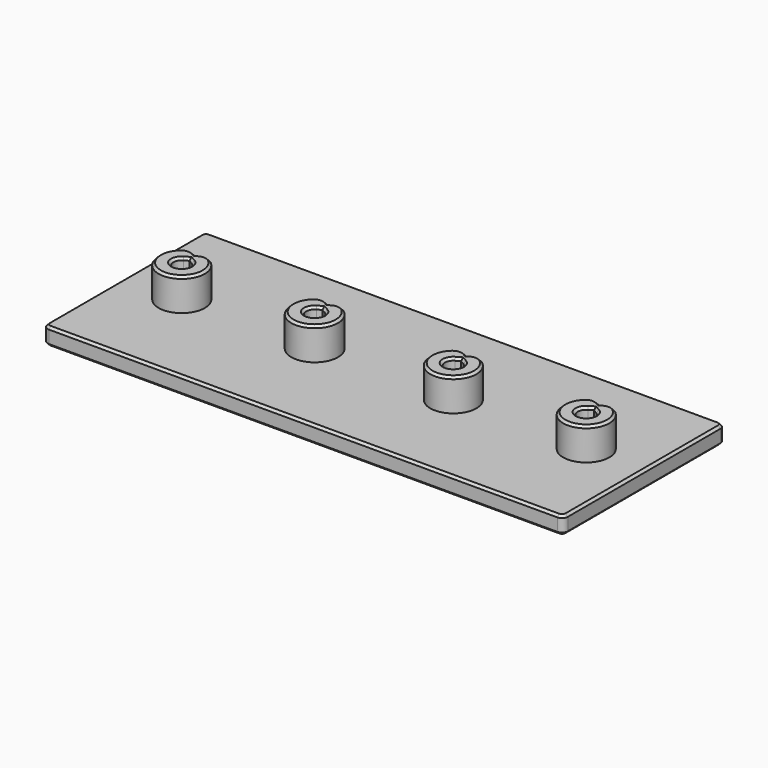
from build123d import *

# Parameters (mm, degrees)
SKETCH_W                = 90
SKETCH_H                = 35
PAD_DEPTH               = 3
SKETCH001_R             = 10.5
HOLE_DEPTH              = 25
HOLE_TEARDROPS_DEPTH    = 25
SKETCH002_R             = 4
PAD001_DEPTH            = 5.6
POCKET_DEPTH            = 5.6
SKETCH004_R             = 1.45
HOLE001_DEPTH           = 25
HOLE001_TEARDROPS_DEPTH = 25
FILLET_R                = 2
CHAMFER_SIZE            = 0.4
FILLET001_R             = 1
PAD002_DEPTH            = 7
SKETCH005_R             = 14.71653
PAD003_DEPTH            = 10
SKETCH006_R             = 4.05
PAD004_DEPTH            = 5.6
POCKET001_DEPTH         = 5.6
SKETCH008_R             = 1.45
HOLE002_DEPTH           = 25
HOLE002_TEARDROPS_DEPTH = 25
FILLET002_R             = 2
CHAMFER001_SIZE         = 0.4
POCKET002_DEPTH         = 7
CHAMFER002_SIZE         = 0.4
CHAMFER003_SIZE         = 0.6


with BuildPart() as part:
    # Sketch → Pad (new body)
    with BuildSketch(Plane.XY):
        Rectangle(SKETCH_W, SKETCH_H)
    extrude(amount=PAD_DEPTH)

    # Sketch001 (on Face6 of Pad) → Hole (cut)
    with BuildSketch(Plane.XY.offset(3)):
        with Locations((-12, 0)):
            Circle(SKETCH001_R)
    extrude(amount=-HOLE_DEPTH, mode=Mode.SUBTRACT)

    # Sketch001_Teardrops (on Sketch) → Hole_Teardrops (cut)
    with BuildSketch(Plane.XY.offset(3)):
        with BuildLine():
            ThreePointArc((-17.25, 9.093267), (-12, -10.5), (-6.75, 9.093267))
            Line((-6.75, 9.093267), (-12, 12.124356))
            Line((-17.25, 9.093267), (-12, 12.124356))
        make_face()
    extrude(amount=-HOLE_TEARDROPS_DEPTH, mode=Mode.SUBTRACT)

    # Sketch002 (on Face5 of Hole_Teardrops) → Pad001 (join)
    with BuildSketch(Plane.XY.offset(3)):
        with Locations((35, 0)):
            Circle(SKETCH002_R)
        with Locations((12, 0)):
            Circle(SKETCH002_R)
        with Locations((-35, 0)):
            Circle(SKETCH002_R)
    extrude(amount=PAD001_DEPTH)

    # Sketch003 (on Face13 of Pad001) → Pocket (cut)
    with BuildSketch(Plane.XY.offset(8.6)):
        Polygon((-35, 3), (-38.464102, 5), (-31.535898, 5), align=None)
        Polygon((12, 3), (8.535898, 5), (15.464102, 5), align=None)
        Polygon((38.464102, 5), (35, 3), (31.535898, 5), align=None)
    extrude(amount=-POCKET_DEPTH, mode=Mode.SUBTRACT)

    # Sketch004 (on Face17 of Pocket) → Hole001 (cut)
    with BuildSketch(Plane.XY.offset(8.6)):
        with Locations((-35, 0)):
            Circle(SKETCH004_R)
        with Locations((12, 0)):
            Circle(SKETCH004_R)
        with Locations((35, 0)):
            Circle(SKETCH004_R)
    extrude(amount=-HOLE001_DEPTH, mode=Mode.SUBTRACT)

    # Sketch004_Teardrops (on Sketch) → Hole001_Teardrops (cut)
    with BuildSketch(Plane.XY.offset(8.6)):
        with BuildLine():
            ThreePointArc((-35.725, 1.255737), (-35, -1.45), (-34.275, 1.255737))
            Line((-34.275, 1.255737), (-35, 1.674316))
            Line((-35.725, 1.255737), (-35, 1.674316))
        make_face()
        with BuildLine():
            ThreePointArc((11.275, 1.255737), (12, -1.45), (12.725, 1.255737))
            Line((12.725, 1.255737), (12, 1.674316))
            Line((11.275, 1.255737), (12, 1.674316))
        make_face()
        with BuildLine():
            ThreePointArc((34.275, 1.255737), (35, -1.45), (35.725, 1.255737))
            Line((35.725, 1.255737), (35, 1.674316))
            Line((34.275, 1.255737), (35, 1.674316))
        make_face()
    extrude(amount=-HOLE001_TEARDROPS_DEPTH, mode=Mode.SUBTRACT)

    # Fillet
    fillet_edges = [part.edges().sort_by_distance(p)[0] for p in [
        (36.334875, 3.770691, 5.8),
        (33.665125, 3.770691, 5.8),
        (13.334875, 3.770691, 5.8),
        (10.665125, 3.770691, 5.8),
        (-33.665125, 3.770691, 5.8),
        (-36.334875, 3.770691, 5.8),
    ]]
    fillet(fillet_edges, radius=FILLET_R)

    # Chamfer
    chamfer_edges = [part.edges().sort_by_distance(p)[0] for p in [
        (33.392214, -3.662653, 8.6),
        (10.392214, -3.662653, 8.6),
        (-36.607786, -3.662653, 8.6),
        (-35.725, -1.255737, 8.6),
        (11.275, -1.255737, 8.6),
        (34.275, -1.255737, 8.6),
    ]]
    chamfer(chamfer_edges, length=CHAMFER_SIZE)

    # Fillet001
    fillet001_edges = [part.edges().sort_by_distance(p)[0] for p in [
        (45, 17.5, 1.5),
        (-45, 17.5, 1.5),
        (-45, -17.5, 1.5),
        (45, -17.5, 1.5),
    ]]
    fillet(fillet001_edges, radius=FILLET001_R)

    # Fillet001 Face28 → Pad002 (add)
    with BuildSketch(Plane(origin=(1.493435, -0.023344, 0), x_dir=(0, -1, 0), z_dir=(0, 0, -1))):
        with BuildLine():
            Line((16.476656, 46.493435), (-16.523344, 46.493435))
            ThreePointArc((-16.523344, 46.493435), (-17.230451, 46.200542), (-17.523344, 45.493435))
            Line((-17.523344, 45.493435), (-17.523344, -42.506565))
            ThreePointArc((-17.523344, -42.506565), (-17.230451, -43.213672), (-16.523344, -43.506565))
            Line((-16.523344, -43.506565), (16.476656, -43.506565))
            ThreePointArc((16.476656, -43.506565), (17.183762, -43.213672), (17.476656, -42.506565))
            Line((17.476656, -42.506565), (17.476656, 45.493435))
            ThreePointArc((17.476656, 45.493435), (17.183762, 46.200542), (16.476656, 46.493435))
        make_face()
        with BuildLine():
            ThreePointArc((-0.023344, 35.043435), (-0.748344, 35.237698), (-1.279081, 35.768435))
            Line((-1.279081, 35.768435), (-1.69766, 36.493435))
            Line((-1.69766, 36.493435), (-1.279081, 37.218435))
            ThreePointArc((-1.279081, 37.218435), (1.232392, 37.218435), (-0.023344, 35.043435))
        make_face(mode=Mode.SUBTRACT)
        with BuildLine():
            ThreePointArc((-0.023344, -11.956565), (-0.748344, -11.762302), (-1.279081, -11.231565))
            Line((-1.279081, -11.231565), (-1.69766, -10.506565))
            Line((-1.69766, -10.506565), (-1.279081, -9.781565))
            ThreePointArc((-1.279081, -9.781565), (1.232392, -9.781565), (-0.023344, -11.956565))
        make_face(mode=Mode.SUBTRACT)
        with BuildLine():
            ThreePointArc((-0.023344, -34.956565), (-0.748344, -34.762302), (-1.279081, -34.231565))
            Line((-1.279081, -34.231565), (-1.69766, -33.506565))
            Line((-1.69766, -33.506565), (-1.279081, -32.781565))
            ThreePointArc((-1.279081, -32.781565), (1.232392, -32.781565), (-0.023344, -34.956565))
        make_face(mode=Mode.SUBTRACT)
        with BuildLine():
            ThreePointArc((-0.023344, 2.993435), (-5.273344, 4.400168), (-9.116611, 8.243435))
            Line((-9.116611, 8.243435), (-12.1477, 13.493435))
            Line((-12.1477, 13.493435), (-9.116611, 18.743435))
            ThreePointArc((-9.116611, 18.743435), (9.069922, 18.743435), (-0.023344, 2.993435))
        make_face(mode=Mode.SUBTRACT)
    extrude(amount=PAD002_DEPTH)

    # Sketch005 (on Face3 of Pad002) → Pad003 (join)
    with BuildSketch(Plane.XY.offset(3)):
        with Locations((-11.639154, 0)):
            Circle(SKETCH005_R)
    extrude(amount=-PAD003_DEPTH)

    # Sketch006 (on Face67 of Pad003) → Pad004 (join)
    with BuildSketch(Plane.XY.offset(3)):
        with Locations((-12, 0)):
            Circle(SKETCH006_R)
    extrude(amount=PAD004_DEPTH)

    # Sketch007 (on Face66 of Pad004) → Pocket001 (cut)
    with BuildSketch(Plane.XY.offset(8.6)):
        Polygon((-12, 3), (-15.464102, 5), (-8.535898, 5), align=None)
    extrude(amount=-POCKET001_DEPTH, mode=Mode.SUBTRACT)

    # Sketch008 (on Face69 of Pocket001) → Hole002 (cut)
    with BuildSketch(Plane.XY.offset(8.6)):
        with Locations((-12, 0)):
            Circle(SKETCH008_R)
    extrude(amount=-HOLE002_DEPTH, mode=Mode.SUBTRACT)

    # Sketch008_Teardrops (on Sketch) → Hole002_Teardrops (cut)
    with BuildSketch(Plane.XY.offset(8.6)):
        with BuildLine():
            ThreePointArc((-12.725, 1.255737), (-12, -1.45), (-11.275, 1.255737))
            Line((-11.275, 1.255737), (-12, 1.674316))
            Line((-12.725, 1.255737), (-12, 1.674316))
        make_face()
    extrude(amount=-HOLE002_TEARDROPS_DEPTH, mode=Mode.SUBTRACT)

    # Fillet002
    fillet002_edges = [part.edges().sort_by_distance(p)[0] for p in [
        (-10.608429, 3.803424, 5.8),
        (-13.391571, 3.803424, 5.8),
    ]]
    fillet(fillet002_edges, radius=FILLET002_R)

    # Chamfer001
    chamfer001_edges = [part.edges().sort_by_distance(p)[0] for p in [
        (-12.725, -1.255737, 8.6),
        (-13.613716, -3.714623, 8.6),
    ]]
    chamfer(chamfer001_edges, length=CHAMFER001_SIZE)

    # Chamfer001 Face41 → Pocket002 (cut)
    with BuildSketch(Plane(origin=(0, -0.000217, -7), x_dir=(0, -1, 0), z_dir=(0, 0, -1))):
        with BuildLine():
            Line((16.499783, 45), (-16.500217, 45))
            ThreePointArc((-16.500217, 45), (-17.207324, 44.707107), (-17.500217, 44))
            Line((-17.500217, 44), (-17.500217, -44))
            ThreePointArc((-17.500217, -44), (-17.207324, -44.707107), (-16.500217, -45))
            Line((-16.500217, -45), (16.499783, -45))
            ThreePointArc((16.499783, -45), (17.20689, -44.707107), (17.499783, -44))
            Line((17.499783, -44), (17.499783, 44))
            ThreePointArc((17.499783, 44), (17.20689, 44.707107), (16.499783, 45))
        make_face()
        with BuildLine():
            ThreePointArc((-0.000217, -36.45), (-0.725217, -36.255737), (-1.255954, -35.725))
            Line((-1.255954, -35.725), (-1.674533, -35))
            Line((-1.674533, -35), (-1.255954, -34.275))
            ThreePointArc((-1.255954, -34.275), (1.25552, -34.275), (-0.000217, -36.45))
        make_face(mode=Mode.SUBTRACT)
        with BuildLine():
            ThreePointArc((-0.000217, -13.45), (-0.725217, -13.255737), (-1.255954, -12.725))
            Line((-1.255954, -12.725), (-1.674533, -12))
            Line((-1.674533, -12), (-1.255954, -11.275))
            ThreePointArc((-1.255954, -11.275), (1.25552, -11.275), (-0.000217, -13.45))
        make_face(mode=Mode.SUBTRACT)
        with BuildLine():
            ThreePointArc((-0.000217, 33.55), (-0.725217, 33.744263), (-1.255954, 34.275))
            Line((-1.255954, 34.275), (-1.674533, 35))
            Line((-1.674533, 35), (-1.255954, 35.725))
            ThreePointArc((-1.255954, 35.725), (1.25552, 35.725), (-0.000217, 33.55))
        make_face(mode=Mode.SUBTRACT)
        with BuildLine():
            ThreePointArc((-1.255954, 12.725), (1.25552, 12.725), (-0.000217, 10.55))
            ThreePointArc((-0.000217, 10.55), (-0.725217, 10.744263), (-1.255954, 11.275))
            Line((-1.255954, 11.275), (-1.674533, 12))
            Line((-1.674533, 12), (-1.255954, 12.725))
        make_face(mode=Mode.SUBTRACT)
    extrude(amount=-POCKET002_DEPTH, mode=Mode.SUBTRACT)

    # Chamfer002
    chamfer002_edges = [part.edges().sort_by_distance(p)[0] for p in [
        (0, -17.5, 3),
        (0, -17.5, 0),
    ]]
    chamfer(chamfer002_edges, length=CHAMFER002_SIZE)

    # Chamfer003
    chamfer003_edges = [part.edges().sort_by_distance(p)[0] for p in [
        (34.275, -1.255737, 0),
        (11.275, -1.255737, 0),
        (-12.725, -1.255737, 0),
        (-35.725, -1.255737, 0),
    ]]
    chamfer(chamfer003_edges, length=CHAMFER003_SIZE)


solid = part.part
